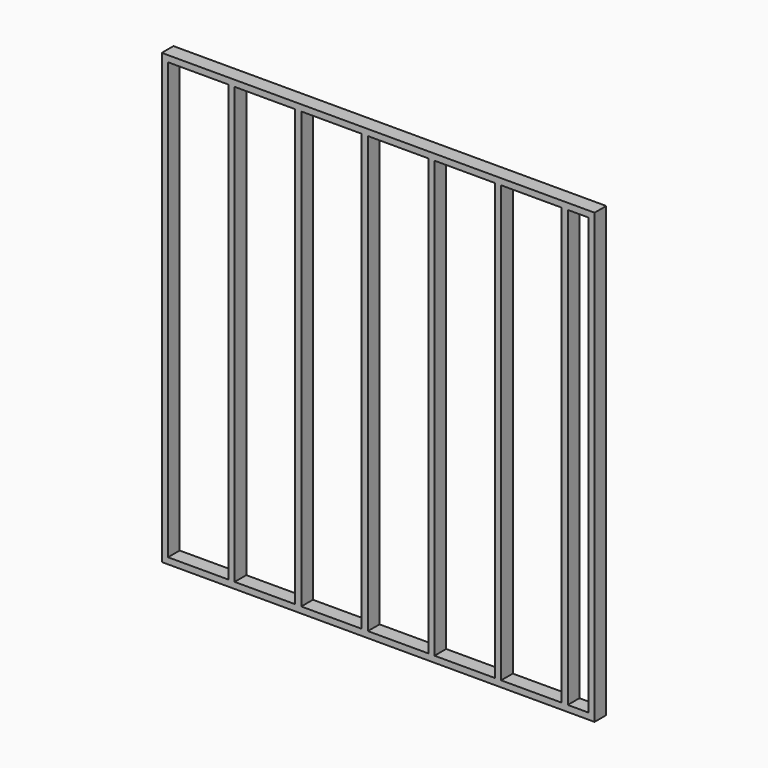
from build123d import *

# Parameters (mm, degrees)
F0_W     = 2639.2632
F0_H     = 2733.7512
F0_W_2   = 38.1
F0_H_2   = 2657.5512
F1_DEPTH = 89.0016


with BuildPart() as f1:
    # F0 (on Front) → F1 (new body)
    with BuildSketch(Plane.XZ):
        Rectangle(F0_W, F0_H)
        Polygon((1281.5316, 1328.7756), (1281.5316, -1328.7756), (1156.2588, -1328.7756), (1118.1588, -1328.7756), (749.9604, -1328.7756), (711.8604, -1328.7756), (343.662, -1328.7756), (305.562, -1328.7756), (-62.6364, -1328.7756), (-100.7364, -1328.7756), (-468.9348, -1328.7756), (-507.0348, -1328.7756), (-875.2332, -1328.7756), (-913.3332, -1328.7756), (-1281.5316, -1328.7756), (-1281.5316, 1328.7756), (-913.3332, 1328.7756), (-875.2332, 1328.7756), (-507.0348, 1328.7756), (-468.9348, 1328.7756), (-100.7364, 1328.7756), (-62.6364, 1328.7756), (305.562, 1328.7756), (343.662, 1328.7756), (711.8604, 1328.7756), (749.9604, 1328.7756), (1118.1588, 1328.7756), (1156.2588, 1328.7756), align=None, mode=Mode.SUBTRACT)
        with Locations((-894.2832, 0)):
            Rectangle(F0_W_2, F0_H_2)
        with Locations((-487.9848, 0)):
            Rectangle(F0_W_2, F0_H_2)
        with Locations((-81.6864, 0)):
            Rectangle(F0_W_2, F0_H_2)
        with Locations((324.612, 0)):
            Rectangle(F0_W_2, F0_H_2)
        with Locations((730.9104, 0)):
            Rectangle(F0_W_2, F0_H_2)
        with Locations((1137.2088, 0)):
            Rectangle(F0_W_2, F0_H_2)
    extrude(amount=F1_DEPTH)


solid = f1.part
